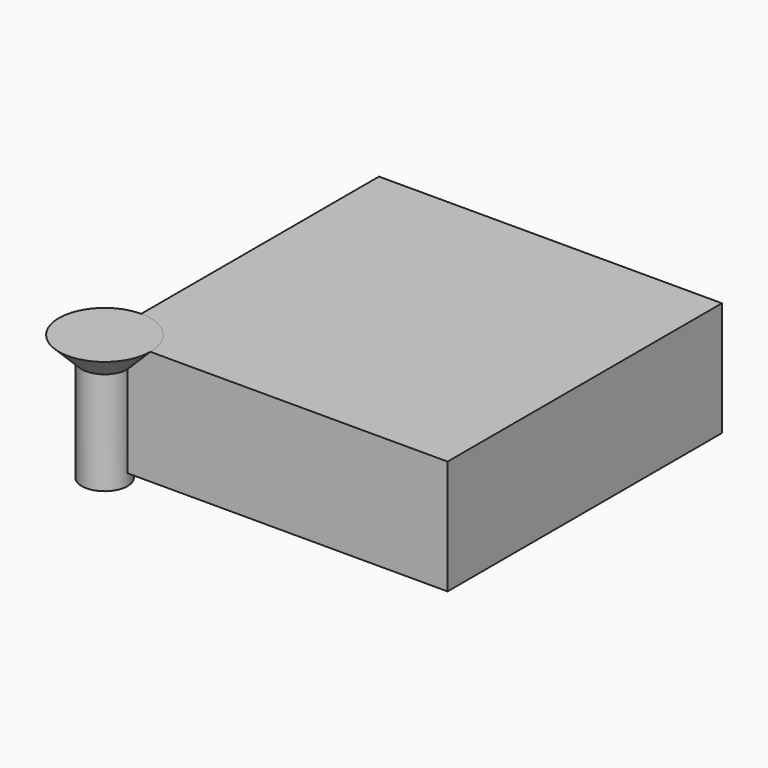
from build123d import *

# Parameters (mm, degrees)
BOX_W          = 30
BOX_H          = 30
BOX_DEPTH      = 10
CYLINDER_R     = 2
CYLINDER_DEPTH = 11


with BuildPart() as cube:
    # Box → Box (new body)
    with BuildSketch(Plane.XY):
        with Locations((15, 15)):
            Rectangle(BOX_W, BOX_H)
    extrude(amount=BOX_DEPTH)


with BuildPart() as cone:
    # Cone → Cone (revolve)
    with BuildSketch(Plane(origin=(0, 0, 8), x_dir=(1, 0, 0), z_dir=(0, -1, 0))):
        Polygon((0, 0), (2, 0), (4, 2), (0, 2), align=None)
    revolve(axis=Axis((0, 0, 8), (0, 0, 1)))


with BuildPart() as screw:
    # Cylinder → Cylinder (new body)
    with BuildSketch(Plane.XY.offset(-1)):
        Circle(CYLINDER_R)
    extrude(amount=CYLINDER_DEPTH)

    # Fusion: union Cone
    add(cone.part)


solid = Compound([cube.part, screw.part])
